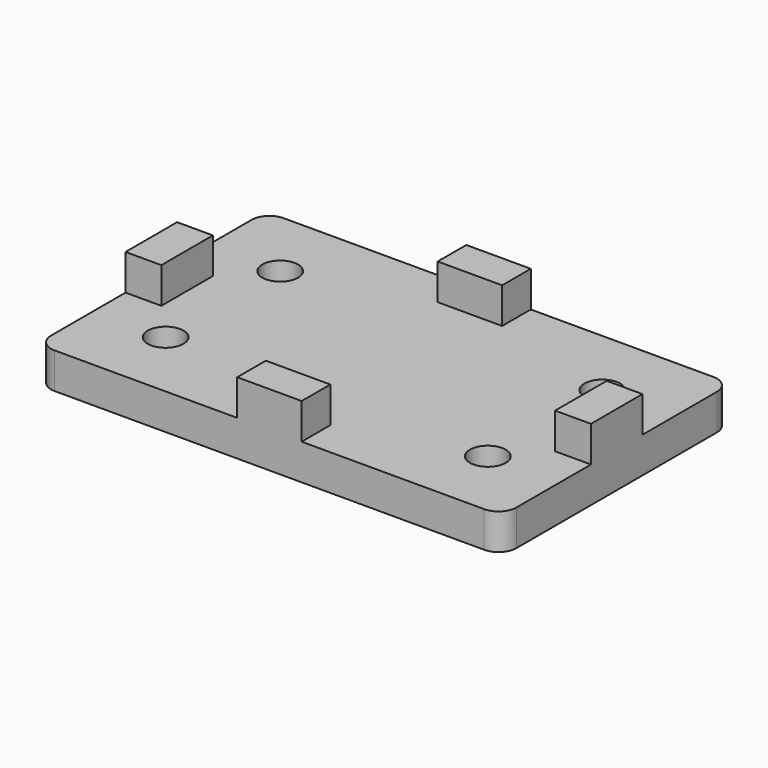
from build123d import *

# Parameters (mm, degrees)
F1_DEPTH = 10
F2_W     = 10
F2_H     = 18
F3_DEPTH = 10
F4_R     = 5
F5_DEPTH = 10.001
F6_DEPTH = 10.001
F7_R     = 5


with BuildPart() as f1:
    # F0 (on Top) → F1 (new body)
    with BuildSketch(Plane.XY):
        Polygon((65, 40), (0, 40), (-65, 40), (-65, -40), (0, -40), (65, -40), align=None)
    extrude(amount=F1_DEPTH)

    # F2 (on face) → F3 (join)
    with BuildSketch(Plane.XY.offset(10)):
        Polygon((-9, 30), (0, 30), (9, 30), (9, 40), (-9, 40), align=None)
        with Locations((60, 0)):
            Rectangle(F2_W, F2_H)
        Polygon((-55, 9), (-65, 9), (-65, 0), (-65, -9), (-55, -9), align=None)
        Polygon((-9, -40), (9, -40), (9, -30), (0, -30), (-9, -30), align=None)
    extrude(amount=F3_DEPTH)

    # F4 (on face) → F5 (cut, through all)
    with BuildSketch(Plane.XY.offset(10)):
        with Locations((-45, -20)):
            Circle(F4_R)
        with Locations((45, -20)):
            Circle(F4_R)
        with Locations((45, 20)):
            Circle(F4_R)
        with Locations((-45, 20)):
            Circle(F4_R)
    extrude(amount=-F5_DEPTH, mode=Mode.SUBTRACT)

    # F4 (on face) → F6 (cut, through all)
    with BuildSketch(Plane.XY.offset(10)):
        with Locations((-45, -20)):
            Circle(F4_R)
        with Locations((45, -20)):
            Circle(F4_R)
        with Locations((45, 20)):
            Circle(F4_R)
        with Locations((-45, 20)):
            Circle(F4_R)
    extrude(amount=-F6_DEPTH, mode=Mode.SUBTRACT)

    # F7
    f7_edges = [f1.edges().sort_by_distance(p)[0] for p in [
        (-65, -40, 5),
        (65, -40, 5),
        (65, 40, 5),
        (-65, 40, 5),
    ]]
    fillet(f7_edges, radius=F7_R)


solid = f1.part
